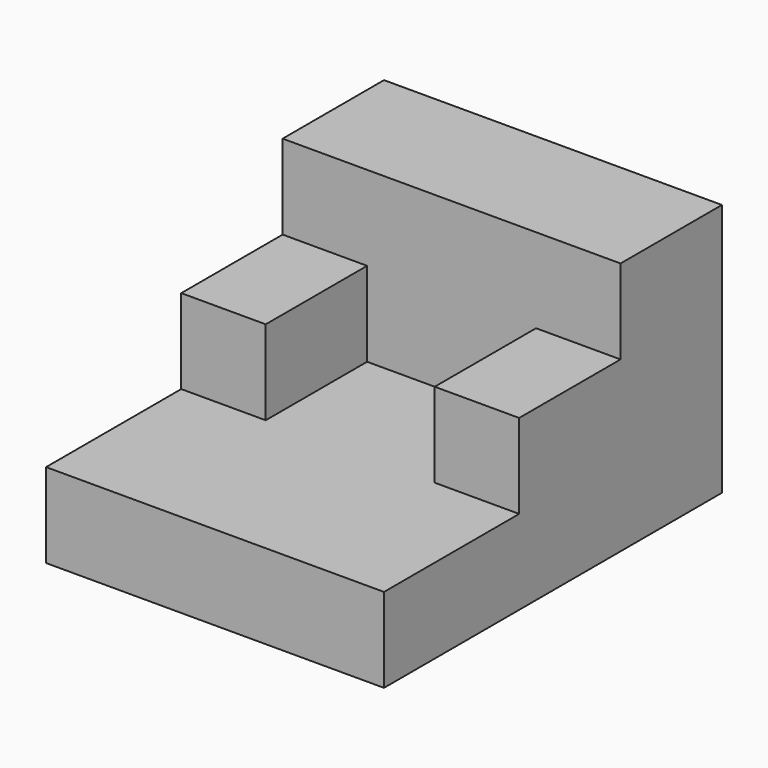
from build123d import *

# Parameters (mm, degrees)
F0_W     = 101.6
F0_H     = 127
F1_DEPTH = 25.4
F2_W     = 25.4
F2_H     = 38.1
F3_DEPTH = 25.4
F5_DEPTH = 25.4


with BuildPart() as f1:
    # F0 (on Top) → F1 (new body)
    with BuildSketch(Plane.XY):
        with Locations((3.221489, 1.487175)):
            Rectangle(F0_W, F0_H)
    extrude(amount=F1_DEPTH)

    # F2 (on face) → F3 (join)
    with BuildSketch(Plane.XY.offset(25.4)):
        Polygon((54.021489, 64.987175), (-47.578511, 64.987175), (-47.578511, 26.887175), (-22.178511, 26.887175), (28.621489, 26.887175), (54.021489, 26.887175), align=None)
        with Locations((-34.878511, 7.837175)):
            Rectangle(F2_W, F2_H)
        with Locations((41.321489, 7.837175)):
            Rectangle(F2_W, F2_H)
    extrude(amount=F3_DEPTH)

    # F4 (on face) → F5 (join)
    with BuildSketch(Plane.XY.offset(50.8)):
        Polygon((54.021489, 64.987175), (-47.578511, 64.987175), (-47.578511, 26.887175), (-22.178511, 26.887175), (28.621489, 26.887175), (54.021489, 26.887175), align=None)
    extrude(amount=F5_DEPTH)


solid = f1.part
